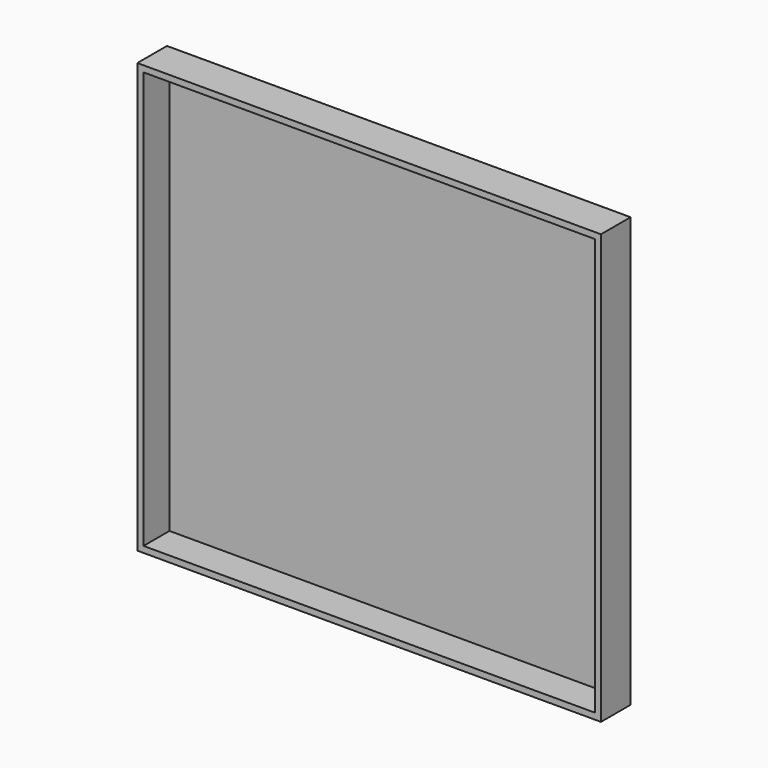
from build123d import *

# Parameters (mm, degrees)
F0_W     = 300
F0_H     = 277.777704
F1_DEPTH = 25
F2_T     = -4
F3_R     = 1.5


with BuildPart() as f1:
    # F0 (on Front) → F1 (new body)
    with BuildSketch(Plane.XZ):
        Rectangle(F0_W, F0_H)
    extrude(amount=F1_DEPTH)

    # F2
    f2_openings = [f1.faces().sort_by_distance(p)[0] for p in [
        (0, -25, 0),
    ]]
    offset(amount=F2_T, openings=f2_openings)

    # F3
    f3_edges = [f1.edges().sort_by_distance(p)[0] for p in [
        (0, 0, -138.888852),
        (150, 0, 0),
        (0, 0, 138.888852),
        (-150, 0, 0),
    ]]
    fillet(f3_edges, radius=F3_R)


solid = f1.part
